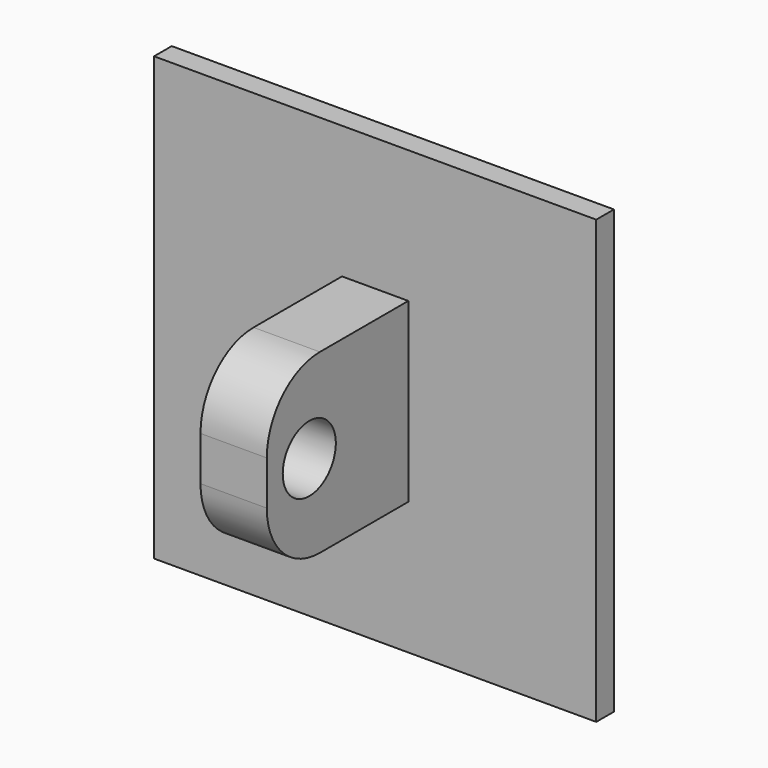
from build123d import *

# Parameters (mm, degrees)
F0_W     = 127
F0_H     = 127
F1_DEPTH = 6.35
F2_W     = 19.05
F2_H     = 50.8
F3_DEPTH = 50.8
F4_R     = 9.525
F5_DEPTH = 73.026
F6_W     = 12.7
F6_H     = 38.1
F7_DEPTH = 25.4
F8_R     = 19.05


with BuildPart() as f1:
    # F0 (on Front) → F1 (new body)
    with BuildSketch(Plane.XZ):
        Rectangle(F0_W, F0_H)
    extrude(amount=F1_DEPTH)

    # F2 (on face) → F3 (join)
    with BuildSketch(Plane.XZ.offset(6.35)):
        Rectangle(F2_W, F2_H)
    extrude(amount=F3_DEPTH)

    # F4 (on face) → F5 (cut, through all)
    with BuildSketch(Plane(origin=(-9.525, 0, 0), x_dir=(0, -1, 0), z_dir=(-1, 0, 0))):
        with Locations((41.91, 0)):
            Circle(F4_R)
    extrude(amount=-F5_DEPTH, mode=Mode.SUBTRACT)

    # F6 (on face) → F7 (join)
    with BuildSketch(Plane(origin=(0, 0, 0), x_dir=(-1, 0, 0), z_dir=(0, 1, 0))):
        Rectangle(F6_W, F6_H)
    extrude(amount=F7_DEPTH)

    # F8
    f8_edges = [f1.edges().sort_by_distance(p)[0] for p in [
        (0, -57.15, 25.4),
        (0, -57.15, -25.4),
    ]]
    fillet(f8_edges, radius=F8_R)


solid = f1.part
